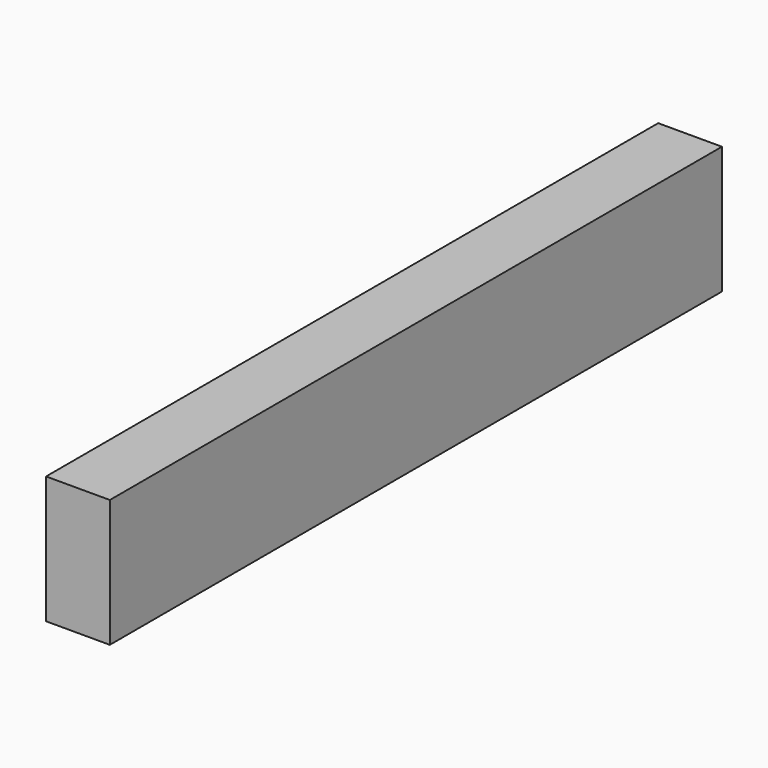
from build123d import *

# Parameters (mm, degrees)
F0_W      = 125
F0_H      = 250
F1_DEPTH  = 250
F1_FACE_W = 125
F1_FACE_H = 250
F2_DEPTH  = 1250


with BuildPart() as f1:
    # F0 (on Front) → F1 (new body)
    with BuildSketch(Plane.XZ):
        with Locations((62.5, 125)):
            Rectangle(F0_W, F0_H)
    extrude(amount=F1_DEPTH)

    # F1_face (on face) → F2 (join)
    with BuildSketch(Plane(origin=(62.5, 0, 125), x_dir=(1, 0, 0), z_dir=(0, 1, 0))):
        Rectangle(F1_FACE_W, F1_FACE_H)
    extrude(amount=F2_DEPTH)

    # F3 (on Front) → F4 (revolve, cut)
    with BuildSketch(Plane.XZ):
        with BuildLine():
            ThreePointArc((31.4, 0), (22.203153, 22.203153), (0, 31.4))
            Line((0, 31.4), (0, 0))
            Line((0, 0), (31.4, 0))
        make_face()
    revolve(axis=Axis((0, 0, 15.7), (0, 0, -1)), mode=Mode.SUBTRACT)


solid = f1.part
